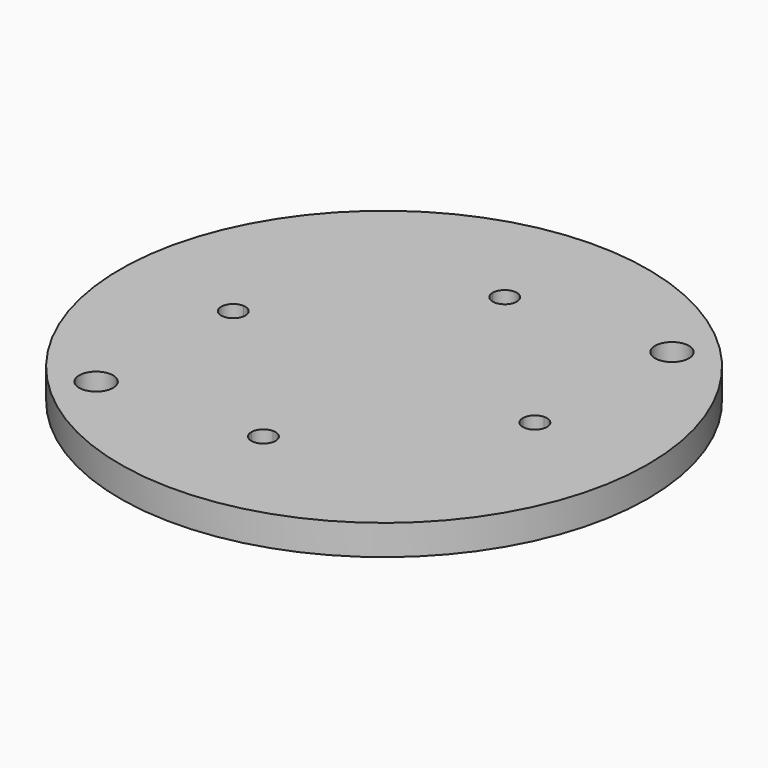
from build123d import *

# Parameters (mm, degrees)
F0_R     = 35
F1_DEPTH = 4
F3_DEPTH = 4.001


with BuildPart() as f1:
    # F0 (on Top) → F1 (new body)
    with BuildSketch(Plane.XY):
        Circle(F0_R)
        with BuildLine():
            ThreePointArc((-18.9632034356, -21.2132034356), (-23.2919323837, -22.0742411584), (-19.6222131779, -19.6222131779))
            ThreePointArc((-19.6222131779, -19.6222131779), (-19.1344744874, -20.3521657128), (-18.9632034356, -21.2132034356))
        make_face(mode=Mode.SUBTRACT)
        with BuildLine():
            ThreePointArc((23.4632034356, 21.2132034356), (22.0742411584, 19.1344744874), (19.6222131779, 19.6222131779))
            ThreePointArc((19.6222131779, 19.6222131779), (20.3521657128, 23.2919323837), (23.4632034356, 21.2132034356))
        make_face(mode=Mode.SUBTRACT)
    extrude(amount=F1_DEPTH)

    # F2 (on face) → F3 (cut, through all)
    with BuildSketch(Plane.XY.offset(4)):
        with BuildLine():
            ThreePointArc((0, 20), (0.8, 19.9839935949), (1.5987194876, 19.936))
            ThreePointArc((1.5987194876, 19.936), (1.5996798399, 19.9679935955), (1.6, 20))
            ThreePointArc((1.6, 20), (-0.0320064045, 21.5996798399), (-1.5987194876, 19.936))
            ThreePointArc((-1.5987194876, 19.936), (-0.8, 19.9839935949), (0, 20))
        make_face()
        with BuildLine():
            ThreePointArc((0, 18.4), (1.1085125168, 18.8462235919), (1.5987194876, 19.936))
            ThreePointArc((1.5987194876, 19.936), (0.8, 19.9839935949), (0, 20))
            Line((0, 20), (0, 18.4))
        make_face()
        with BuildLine():
            Line((0, 18.4), (0, 20))
            ThreePointArc((0, 20), (-0.8, 19.9839935949), (-1.5987194876, 19.936))
            ThreePointArc((-1.5987194876, 19.936), (-1.1085125168, 18.8462235919), (0, 18.4))
        make_face()
        with BuildLine():
            ThreePointArc((-20, 0), (-19.9839935949, 0.8), (-19.936, 1.5987194876))
            ThreePointArc((-19.936, 1.5987194876), (-21.6, 0), (-19.936, -1.5987194876))
            ThreePointArc((-19.936, -1.5987194876), (-19.9839935949, -0.8), (-20, 0))
        make_face()
        with BuildLine():
            Line((-20, 0), (-18.4, 0))
            ThreePointArc((-18.4, 0), (-18.8462235919, 1.1085125168), (-19.936, 1.5987194876))
            ThreePointArc((-19.936, 1.5987194876), (-19.9839935949, 0.8), (-20, 0))
        make_face()
        with BuildLine():
            ThreePointArc((-19.936, -1.5987194876), (-18.8462235919, -1.1085125168), (-18.4, 0))
            Line((-18.4, 0), (-20, 0))
            ThreePointArc((-20, 0), (-19.9839935949, -0.8), (-19.936, -1.5987194876))
        make_face()
        with BuildLine():
            ThreePointArc((1.6, -20), (1.5996798399, -19.9679935955), (1.5987194876, -19.936))
            ThreePointArc((1.5987194876, -19.936), (0.8, -19.9839935949), (0, -20))
            ThreePointArc((0, -20), (-0.8, -19.9839935949), (-1.5987194876, -19.936))
            ThreePointArc((-1.5987194876, -19.936), (-0.0320064045, -21.5996798399), (1.6, -20))
        make_face()
        with BuildLine():
            ThreePointArc((-1.5987194876, -19.936), (-0.8, -19.9839935949), (0, -20))
            Line((0, -20), (0, -18.4))
            ThreePointArc((0, -18.4), (-1.1085125168, -18.8462235919), (-1.5987194876, -19.936))
        make_face()
        with BuildLine():
            ThreePointArc((0, -20), (0.8, -19.9839935949), (1.5987194876, -19.936))
            ThreePointArc((1.5987194876, -19.936), (1.1085125168, -18.8462235919), (0, -18.4))
            Line((0, -18.4), (0, -20))
        make_face()
        with BuildLine():
            ThreePointArc((19.936, 1.5987194876), (19.9839935949, 0.8), (20, 0))
            ThreePointArc((20, 0), (19.9839935949, -0.8), (19.936, -1.5987194876))
            ThreePointArc((19.936, -1.5987194876), (21.1085125168, -1.1537764081), (21.6, 0))
            ThreePointArc((21.6, 0), (21.1085125168, 1.1537764081), (19.936, 1.5987194876))
        make_face()
        with BuildLine():
            ThreePointArc((19.936, -1.5987194876), (19.9839935949, -0.8), (20, 0))
            Line((20, 0), (18.4, 0))
            ThreePointArc((18.4, 0), (18.8462235919, -1.1085125168), (19.936, -1.5987194876))
        make_face()
        with BuildLine():
            Line((18.4, 0), (20, 0))
            ThreePointArc((20, 0), (19.9839935949, 0.8), (19.936, 1.5987194876))
            ThreePointArc((19.936, 1.5987194876), (18.8462235919, 1.1085125168), (18.4, 0))
        make_face()
    extrude(amount=-F3_DEPTH, mode=Mode.SUBTRACT)


solid = f1.part
